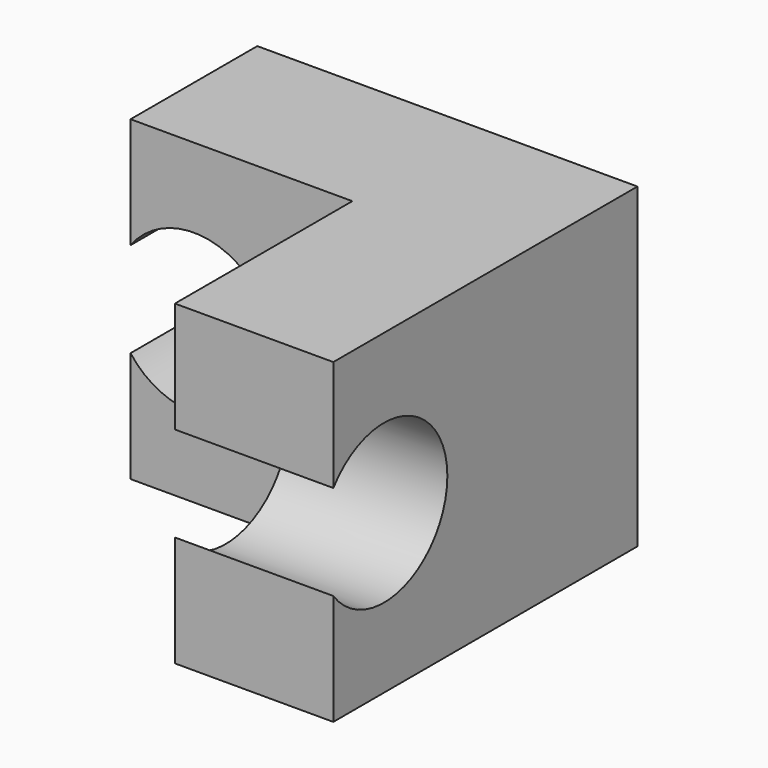
from build123d import *

# Parameters (mm, degrees)
F1_DEPTH       = 12.7
F4_D           = 6.35
F4_DEPTH       = 25.4
F4_TIP         = 1.9077324654
F4_ON_F3_D     = 6.35
F4_ON_F3_DEPTH = 25.4
F4_ON_F3_TIP   = 1.9077324654


with BuildPart() as f1:
    # F0 (on Top) → F1 (new body)
    with BuildSketch(Plane.XY):
        Polygon((-3.6485809102, 10.6884501653), (-3.6485809102, 4.3384501653), (5.2414190898, 4.3384501653), (5.2414190898, -4.5515498347), (11.5914190898, -4.5515498347), (11.5914190898, 10.6884501653), align=None)
    extrude(amount=F1_DEPTH)

    # F4
    with Locations(Plane(origin=(0, 10.6884501653, 0), x_dir=(-1, 0, 0), z_dir=(0, 1, 0))):
        with Locations((1.1085809102, 6.35)):
            Hole(F4_D / 2, depth=F4_DEPTH)
            with Locations((0, 0, -(F4_DEPTH + F4_TIP / 2))):  # 118° drill point
                Cone(0, F4_D / 2, F4_TIP, mode=Mode.SUBTRACT)

    # F4 on F3
    with Locations(Plane.YZ.offset(11.5914190898)):
        with Locations((-2.0115498347, 6.35)):
            Hole(F4_ON_F3_D / 2, depth=F4_ON_F3_DEPTH)
            with Locations((0, 0, -(F4_ON_F3_DEPTH + F4_ON_F3_TIP / 2))):  # 118° drill point
                Cone(0, F4_ON_F3_D / 2, F4_ON_F3_TIP, mode=Mode.SUBTRACT)


solid = f1.part
